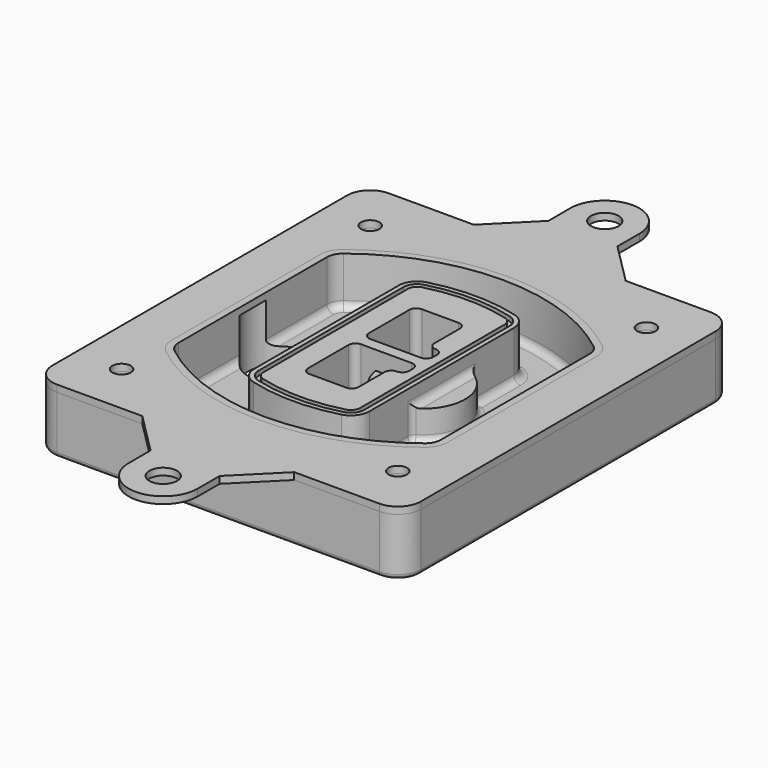
from build123d import *

# Parameters (mm, degrees)
F0_R      = 4
F1_DEPTH  = 25
F2_DEPTH  = 3
F3_DEPTH  = 18
F5_DEPTH  = 21
F6_DEPTH  = 2
F8_DEPTH  = 20
F9_DEPTH  = 16
F10_DEPTH = 25
F7_R      = 6
F7_R_2    = 4
F11_DEPTH = 6
F13_DEPTH = 9
F14_R     = 3
F15_R     = 2
F16_R     = 6
F16_R_2   = 4
F17_DEPTH = 3


with BuildPart() as f1:
    # F0 (on Top) → F1 (new body)
    with BuildSketch(Plane.XY):
        with BuildLine():
            ThreePointArc((-80, -80), (-77.0710678119, -87.0710678119), (-70, -90))
            Line((-70, -90), (70, -90))
            ThreePointArc((70, -90), (77.0710678119, -87.0710678119), (80, -80))
            Line((80, -80), (80, 80))
            ThreePointArc((80, 80), (77.0710678119, 87.0710678119), (70, 90))
            Line((70, 90), (-70, 90))
            ThreePointArc((-70, 90), (-77.0710678119, 87.0710678119), (-80, 80))
            Line((-80, 80), (-80, -80))
        make_face()
        with Locations((-60, -67.5)):
            Circle(F0_R, mode=Mode.SUBTRACT)
        with Locations((60, -67.5)):
            Circle(F0_R, mode=Mode.SUBTRACT)
        with Locations((-60, 67.5)):
            Circle(F0_R, mode=Mode.SUBTRACT)
        with BuildLine():
            ThreePointArc((-64, 40.2934422872), (-62.5820384798, 46.4328484224), (-58.6153846154, 51.3286200352))
            ThreePointArc((-58.6153846154, 51.3286200352), (0, 71.5), (58.6153846154, 51.3286200352))
            ThreePointArc((58.6153846154, 51.3286200352), (62.5820384798, 46.4328484224), (64, 40.2934422872))
            Line((64, 40.2934422872), (64, -40.2934422872))
            ThreePointArc((64, -40.2934422872), (62.5820384798, -46.4328484224), (58.6153846154, -51.3286200352))
            ThreePointArc((58.6153846154, -51.3286200352), (0, -71.5), (-58.6153846154, -51.3286200352))
            ThreePointArc((-58.6153846154, -51.3286200352), (-62.5820384798, -46.4328484224), (-64, -40.2934422872))
            Line((-64, -40.2934422872), (-64, 40.2934422872))
        make_face(mode=Mode.SUBTRACT)
        with Locations((60, 67.5)):
            Circle(F0_R, mode=Mode.SUBTRACT)
        with BuildLine():
            ThreePointArc((58.6153846154, 51.3286200352), (0, 71.5), (-58.6153846154, 51.3286200352))
            ThreePointArc((-58.6153846154, 51.3286200352), (-62.5820384798, 46.4328484224), (-64, 40.2934422872))
            Line((-64, 40.2934422872), (-64, -40.2934422872))
            ThreePointArc((-64, -40.2934422872), (-62.5820384798, -46.4328484224), (-58.6153846154, -51.3286200352))
            ThreePointArc((-58.6153846154, -51.3286200352), (0, -71.5), (58.6153846154, -51.3286200352))
            ThreePointArc((58.6153846154, -51.3286200352), (62.5820384798, -46.4328484224), (64, -40.2934422872))
            Line((64, -40.2934422872), (64, 40.2934422872))
            ThreePointArc((64, 40.2934422872), (62.5820384798, 46.4328484224), (58.6153846154, 51.3286200352))
        make_face()
        with BuildLine():
            Line((-60, -40.2934422872), (-60, 40.2934422872))
            ThreePointArc((-60, 40.2934422872), (-58.9871703427, 44.6787323838), (-56.1538461538, 48.1757121072))
            ThreePointArc((-56.1538461538, 48.1757121072), (0, 67.5), (56.1538461538, 48.1757121072))
            ThreePointArc((56.1538461538, 48.1757121072), (58.9871703427, 44.6787323838), (60, 40.2934422872))
            Line((60, 40.2934422872), (60, -40.2934422872))
            ThreePointArc((60, -40.2934422872), (58.9871703427, -44.6787323838), (56.1538461538, -48.1757121072))
            ThreePointArc((56.1538461538, -48.1757121072), (0, -67.5), (-56.1538461538, -48.1757121072))
            ThreePointArc((-56.1538461538, -48.1757121072), (-58.9871703427, -44.6787323838), (-60, -40.2934422872))
        make_face(mode=Mode.SUBTRACT)
        with BuildLine():
            ThreePointArc((-56.1538461538, 48.1757121072), (-58.9871703427, 44.6787323838), (-60, 40.2934422872))
            Line((-60, 40.2934422872), (-60, -40.2934422872))
            ThreePointArc((-60, -40.2934422872), (-58.9871703427, -44.6787323838), (-56.1538461538, -48.1757121072))
            ThreePointArc((-56.1538461538, -48.1757121072), (0, -67.5), (56.1538461538, -48.1757121072))
            ThreePointArc((56.1538461538, -48.1757121072), (58.9871703427, -44.6787323838), (60, -40.2934422872))
            Line((60, -40.2934422872), (60, 40.2934422872))
            ThreePointArc((60, 40.2934422872), (58.9871703427, 44.6787323838), (56.1538461538, 48.1757121072))
            ThreePointArc((56.1538461538, 48.1757121072), (0, 67.5), (-56.1538461538, 48.1757121072))
        make_face()
        with BuildLine():
            ThreePointArc((54.3076923077, 45.8110311612), (56.2910192399, 43.3631453548), (57, 40.2934422872))
            Line((57, 40.2934422872), (57, -40.2934422872))
            ThreePointArc((57, -40.2934422872), (56.2910192399, -43.3631453548), (54.3076923077, -45.8110311612))
            ThreePointArc((54.3076923077, -45.8110311612), (0, -64.5), (-54.3076923077, -45.8110311612))
            ThreePointArc((-54.3076923077, -45.8110311612), (-56.2910192399, -43.3631453548), (-57, -40.2934422872))
            Line((-57, -40.2934422872), (-57, 40.2934422872))
            ThreePointArc((-57, 40.2934422872), (-56.2910192399, 43.3631453548), (-54.3076923077, 45.8110311612))
            ThreePointArc((-54.3076923077, 45.8110311612), (0, 64.5), (54.3076923077, 45.8110311612))
        make_face(mode=Mode.SUBTRACT)
        with BuildLine():
            Line((57, -40.2934422872), (57, 40.2934422872))
            ThreePointArc((57, 40.2934422872), (56.2910192399, 43.3631453548), (54.3076923077, 45.8110311612))
            ThreePointArc((54.3076923077, 45.8110311612), (0, 64.5), (-54.3076923077, 45.8110311612))
            ThreePointArc((-54.3076923077, 45.8110311612), (-56.2910192399, 43.3631453548), (-57, 40.2934422872))
            Line((-57, 40.2934422872), (-57, -40.2934422872))
            ThreePointArc((-57, -40.2934422872), (-56.2910192399, -43.3631453548), (-54.3076923077, -45.8110311612))
            ThreePointArc((-54.3076923077, -45.8110311612), (0, -64.5), (54.3076923077, -45.8110311612))
            ThreePointArc((54.3076923077, -45.8110311612), (56.2910192399, -43.3631453548), (57, -40.2934422872))
        make_face()
    extrude(amount=-F1_DEPTH)

    # F0 (on Top) → F2 (join)
    with BuildSketch(Plane.XY):
        with BuildLine():
            ThreePointArc((-56.1538461538, 48.1757121072), (-58.9871703427, 44.6787323838), (-60, 40.2934422872))
            Line((-60, 40.2934422872), (-60, -40.2934422872))
            ThreePointArc((-60, -40.2934422872), (-58.9871703427, -44.6787323838), (-56.1538461538, -48.1757121072))
            ThreePointArc((-56.1538461538, -48.1757121072), (0, -67.5), (56.1538461538, -48.1757121072))
            ThreePointArc((56.1538461538, -48.1757121072), (58.9871703427, -44.6787323838), (60, -40.2934422872))
            Line((60, -40.2934422872), (60, 40.2934422872))
            ThreePointArc((60, 40.2934422872), (58.9871703427, 44.6787323838), (56.1538461538, 48.1757121072))
            ThreePointArc((56.1538461538, 48.1757121072), (0, 67.5), (-56.1538461538, 48.1757121072))
        make_face()
        with BuildLine():
            ThreePointArc((54.3076923077, 45.8110311612), (56.2910192399, 43.3631453548), (57, 40.2934422872))
            Line((57, 40.2934422872), (57, -40.2934422872))
            ThreePointArc((57, -40.2934422872), (56.2910192399, -43.3631453548), (54.3076923077, -45.8110311612))
            ThreePointArc((54.3076923077, -45.8110311612), (0, -64.5), (-54.3076923077, -45.8110311612))
            ThreePointArc((-54.3076923077, -45.8110311612), (-56.2910192399, -43.3631453548), (-57, -40.2934422872))
            Line((-57, -40.2934422872), (-57, 40.2934422872))
            ThreePointArc((-57, 40.2934422872), (-56.2910192399, 43.3631453548), (-54.3076923077, 45.8110311612))
            ThreePointArc((-54.3076923077, 45.8110311612), (0, 64.5), (54.3076923077, 45.8110311612))
        make_face(mode=Mode.SUBTRACT)
    extrude(amount=F2_DEPTH)

    # F0 (on Top) → F3 (cut)
    with BuildSketch(Plane.XY):
        with BuildLine():
            Line((57, -40.2934422872), (57, 40.2934422872))
            ThreePointArc((57, 40.2934422872), (56.2910192399, 43.3631453548), (54.3076923077, 45.8110311612))
            ThreePointArc((54.3076923077, 45.8110311612), (0, 64.5), (-54.3076923077, 45.8110311612))
            ThreePointArc((-54.3076923077, 45.8110311612), (-56.2910192399, 43.3631453548), (-57, 40.2934422872))
            Line((-57, 40.2934422872), (-57, -40.2934422872))
            ThreePointArc((-57, -40.2934422872), (-56.2910192399, -43.3631453548), (-54.3076923077, -45.8110311612))
            ThreePointArc((-54.3076923077, -45.8110311612), (0, -64.5), (54.3076923077, -45.8110311612))
            ThreePointArc((54.3076923077, -45.8110311612), (56.2910192399, -43.3631453548), (57, -40.2934422872))
        make_face()
    extrude(amount=-F3_DEPTH, mode=Mode.SUBTRACT)

    # F4 (on face) → F5 (join, through all)
    with BuildSketch(Plane.XY.offset(3)):
        with BuildLine():
            ThreePointArc((-25, -39.2465276821), (-23.3511545998, -44.1109737193), (-19.0842911877, -46.9702398883))
            ThreePointArc((-19.0842911877, -46.9702398883), (0, -49.5), (19.0842911877, -46.9702398883))
            ThreePointArc((19.0842911877, -46.9702398883), (23.3511545998, -44.1109737193), (25, -39.2465276821))
            Line((25, -39.2465276821), (25, 39.2465276821))
            ThreePointArc((25, 39.2465276821), (23.3511545998, 44.1109737193), (19.0842911877, 46.9702398883))
            ThreePointArc((19.0842911877, 46.9702398883), (0, 49.5), (-19.0842911877, 46.9702398883))
            ThreePointArc((-19.0842911877, 46.9702398883), (-23.3511545998, 44.1109737193), (-25, 39.2465276821))
            Line((-25, 39.2465276821), (-25, -39.2465276821))
        make_face()
        with BuildLine():
            ThreePointArc((18.5632183908, 45.0393118368), (21.7633659499, 42.89486221), (23, 39.2465276821))
            Line((23, 39.2465276821), (23, -39.2465276821))
            ThreePointArc((23, -39.2465276821), (21.7633659499, -42.89486221), (18.5632183908, -45.0393118368))
            ThreePointArc((18.5632183908, -45.0393118368), (0, -47.5), (-18.5632183908, -45.0393118368))
            ThreePointArc((-18.5632183908, -45.0393118368), (-21.7633659499, -42.89486221), (-23, -39.2465276821))
            Line((-23, -39.2465276821), (-23, 39.2465276821))
            ThreePointArc((-23, 39.2465276821), (-21.7633659499, 42.89486221), (-18.5632183908, 45.0393118368))
            ThreePointArc((-18.5632183908, 45.0393118368), (0, 47.5), (18.5632183908, 45.0393118368))
        make_face(mode=Mode.SUBTRACT)
        with BuildLine():
            Line((23, -39.2465276821), (23, 39.2465276821))
            ThreePointArc((23, 39.2465276821), (21.7633659499, 42.89486221), (18.5632183908, 45.0393118368))
            ThreePointArc((18.5632183908, 45.0393118368), (0, 47.5), (-18.5632183908, 45.0393118368))
            ThreePointArc((-18.5632183908, 45.0393118368), (-21.7633659499, 42.89486221), (-23, 39.2465276821))
            Line((-23, 39.2465276821), (-23, -39.2465276821))
            ThreePointArc((-23, -39.2465276821), (-21.7633659499, -42.89486221), (-18.5632183908, -45.0393118368))
            ThreePointArc((-18.5632183908, -45.0393118368), (0, -47.5), (18.5632183908, -45.0393118368))
            ThreePointArc((18.5632183908, -45.0393118368), (21.7633659499, -42.89486221), (23, -39.2465276821))
        make_face()
        with BuildLine():
            ThreePointArc((18.0421455939, 43.1083837852), (20.1755772999, 41.6787507007), (21, 39.2465276821))
            Line((21, 39.2465276821), (21, -39.2465276821))
            ThreePointArc((21, -39.2465276821), (20.1755772999, -41.6787507007), (18.0421455939, -43.1083837852))
            ThreePointArc((18.0421455939, -43.1083837852), (0, -45.5), (-18.0421455939, -43.1083837852))
            ThreePointArc((-18.0421455939, -43.1083837852), (-20.1755772999, -41.6787507007), (-21, -39.2465276821))
            Line((-21, -39.2465276821), (-21, 39.2465276821))
            ThreePointArc((-21, 39.2465276821), (-20.1755772999, 41.6787507007), (-18.0421455939, 43.1083837852))
            ThreePointArc((-18.0421455939, 43.1083837852), (0, 45.5), (18.0421455939, 43.1083837852))
        make_face(mode=Mode.SUBTRACT)
        with BuildLine():
            Line((21, -39.2465276821), (21, 39.2465276821))
            ThreePointArc((21, 39.2465276821), (20.1755772999, 41.6787507007), (18.0421455939, 43.1083837852))
            ThreePointArc((18.0421455939, 43.1083837852), (0, 45.5), (-18.0421455939, 43.1083837852))
            ThreePointArc((-18.0421455939, 43.1083837852), (-20.1755772999, 41.6787507007), (-21, 39.2465276821))
            Line((-21, 39.2465276821), (-21, -39.2465276821))
            ThreePointArc((-21, -39.2465276821), (-20.1755772999, -41.6787507007), (-18.0421455939, -43.1083837852))
            ThreePointArc((-18.0421455939, -43.1083837852), (0, -45.5), (18.0421455939, -43.1083837852))
            ThreePointArc((18.0421455939, -43.1083837852), (20.1755772999, -41.6787507007), (21, -39.2465276821))
        make_face()
        with BuildLine():
            Line((-8, -2.5), (14, -2.5))
            ThreePointArc((14, -2.5), (16.1213203436, -3.3786796564), (17, -5.5))
            Line((17, -5.5), (17, -7.5))
            ThreePointArc((17, -7.5), (16.1213203436, -9.6213203436), (14, -10.5))
            ThreePointArc((14, -10.5), (11.8786796564, -11.3786796564), (11, -13.5))
            Line((11, -13.5), (11, -27.5))
            ThreePointArc((11, -27.5), (10.1213203436, -29.6213203436), (8, -30.5))
            Line((8, -30.5), (-8, -30.5))
            ThreePointArc((-8, -30.5), (-10.1213203436, -29.6213203436), (-11, -27.5))
            Line((-11, -27.5), (-11, -5.5))
            ThreePointArc((-11, -5.5), (-10.1213203436, -3.3786796564), (-8, -2.5))
        make_face(mode=Mode.SUBTRACT)
        with BuildLine():
            ThreePointArc((-8, 2.5), (-10.1213203436, 3.3786796564), (-11, 5.5))
            Line((-11, 5.5), (-11, 27.5))
            ThreePointArc((-11, 27.5), (-10.1213203436, 29.6213203436), (-8, 30.5))
            Line((-8, 30.5), (8, 30.5))
            ThreePointArc((8, 30.5), (10.1213203436, 29.6213203436), (11, 27.5))
            Line((11, 27.5), (11, 13.5))
            ThreePointArc((11, 13.5), (11.8786796564, 11.3786796564), (14, 10.5))
            ThreePointArc((14, 10.5), (16.1213203436, 9.6213203436), (17, 7.5))
            Line((17, 7.5), (17, 5.5))
            ThreePointArc((17, 5.5), (16.1213203436, 3.3786796564), (14, 2.5))
            Line((14, 2.5), (-8, 2.5))
        make_face(mode=Mode.SUBTRACT)
    extrude(amount=-F5_DEPTH)

    # F4 (on face) → F6 (cut)
    with BuildSketch(Plane.XY.offset(3)):
        with BuildLine():
            Line((23, -39.2465276821), (23, 39.2465276821))
            ThreePointArc((23, 39.2465276821), (21.7633659499, 42.89486221), (18.5632183908, 45.0393118368))
            ThreePointArc((18.5632183908, 45.0393118368), (0, 47.5), (-18.5632183908, 45.0393118368))
            ThreePointArc((-18.5632183908, 45.0393118368), (-21.7633659499, 42.89486221), (-23, 39.2465276821))
            Line((-23, 39.2465276821), (-23, -39.2465276821))
            ThreePointArc((-23, -39.2465276821), (-21.7633659499, -42.89486221), (-18.5632183908, -45.0393118368))
            ThreePointArc((-18.5632183908, -45.0393118368), (0, -47.5), (18.5632183908, -45.0393118368))
            ThreePointArc((18.5632183908, -45.0393118368), (21.7633659499, -42.89486221), (23, -39.2465276821))
        make_face()
        with BuildLine():
            ThreePointArc((18.0421455939, 43.1083837852), (20.1755772999, 41.6787507007), (21, 39.2465276821))
            Line((21, 39.2465276821), (21, -39.2465276821))
            ThreePointArc((21, -39.2465276821), (20.1755772999, -41.6787507007), (18.0421455939, -43.1083837852))
            ThreePointArc((18.0421455939, -43.1083837852), (0, -45.5), (-18.0421455939, -43.1083837852))
            ThreePointArc((-18.0421455939, -43.1083837852), (-20.1755772999, -41.6787507007), (-21, -39.2465276821))
            Line((-21, -39.2465276821), (-21, 39.2465276821))
            ThreePointArc((-21, 39.2465276821), (-20.1755772999, 41.6787507007), (-18.0421455939, 43.1083837852))
            ThreePointArc((-18.0421455939, 43.1083837852), (0, 45.5), (18.0421455939, 43.1083837852))
        make_face(mode=Mode.SUBTRACT)
    extrude(amount=-F6_DEPTH, mode=Mode.SUBTRACT)

    # F7 (on face) → F8 (join)
    with BuildSketch(Plane(origin=(0, 0, -25), x_dir=(1, 0, 0), z_dir=(0, 0, -1))):
        with BuildLine():
            ThreePointArc((3.28842436, 0), (16.7567035675, 13.4682792075), (30.224982775, 0))
            Line((30.224982775, 0), (35.224982775, 0))
            ThreePointArc((35.224982775, 0), (16.7567035675, 18.4682792075), (-1.71157564, 0))
            Line((-1.71157564, 0), (3.28842436, 0))
        make_face()
        with BuildLine():
            Line((3.28842436, 0), (30.224982775, 0))
            ThreePointArc((30.224982775, 0), (16.7567035675, 13.4682792075), (3.28842436, 0))
        make_face()
        with BuildLine():
            ThreePointArc((3.28842436, 0), (16.7567035675, -13.4682792075), (30.224982775, 0))
            Line((30.224982775, 0), (3.28842436, 0))
        make_face()
        with BuildLine():
            Line((35.224982775, 0), (30.224982775, 0))
            ThreePointArc((30.224982775, 0), (16.7567035675, -13.4682792075), (3.28842436, 0))
            Line((3.28842436, 0), (-1.71157564, 0))
            ThreePointArc((-1.71157564, 0), (16.7567035675, -18.4682792075), (35.224982775, 0))
        make_face()
    extrude(amount=-F8_DEPTH)

    # F7 (on face) → F9 (cut)
    with BuildSketch(Plane(origin=(0, 0, -25), x_dir=(1, 0, 0), z_dir=(0, 0, -1))):
        with BuildLine():
            Line((3.28842436, 0), (30.224982775, 0))
            ThreePointArc((30.224982775, 0), (16.7567035675, 13.4682792075), (3.28842436, 0))
        make_face()
        with BuildLine():
            ThreePointArc((3.28842436, 0), (16.7567035675, -13.4682792075), (30.224982775, 0))
            Line((30.224982775, 0), (3.28842436, 0))
        make_face()
    extrude(amount=-F9_DEPTH, mode=Mode.SUBTRACT)

    # F7 (on face) → F10 (cut)
    with BuildSketch(Plane(origin=(0, 0, -25), x_dir=(1, 0, 0), z_dir=(0, 0, -1))):
        with BuildLine():
            Line((-59.0318229325, 0), (-32.0952645175, 0))
            ThreePointArc((-32.0952645175, 0), (-45.563543725, 13.4682792075), (-59.0318229325, 0))
        make_face()
        with BuildLine():
            ThreePointArc((-59.0318229325, 0), (-45.563543725, -13.4682792075), (-32.0952645175, 0))
            Line((-32.0952645175, 0), (-59.0318229325, 0))
        make_face()
    extrude(amount=-F10_DEPTH, mode=Mode.SUBTRACT)

    # F7 (on face) → F11 (cut)
    with BuildSketch(Plane(origin=(0, 0, -25), x_dir=(1, 0, 0), z_dir=(0, 0, -1))):
        with Locations((60, -67.5)):
            Circle(F7_R)
        with Locations((60, -67.5)):
            Circle(F7_R_2, mode=Mode.SUBTRACT)
        with Locations((60, -67.5)):
            Circle(F7_R)
        with Locations((60, -67.5)):
            Circle(F7_R_2, mode=Mode.SUBTRACT)
        with Locations((-60, -67.5)):
            Circle(F7_R)
        with Locations((-60, -67.5)):
            Circle(F7_R_2, mode=Mode.SUBTRACT)
        with Locations((-60, -67.5)):
            Circle(F7_R)
        with Locations((-60, -67.5)):
            Circle(F7_R_2, mode=Mode.SUBTRACT)
        with Locations((-60, 67.5)):
            Circle(F7_R)
        with Locations((-60, 67.5)):
            Circle(F7_R_2, mode=Mode.SUBTRACT)
        with Locations((-60, 67.5)):
            Circle(F7_R)
        with Locations((-60, 67.5)):
            Circle(F7_R_2, mode=Mode.SUBTRACT)
        with Locations((60, 67.5)):
            Circle(F7_R)
        with Locations((60, 67.5)):
            Circle(F7_R_2, mode=Mode.SUBTRACT)
        with Locations((60, 67.5)):
            Circle(F7_R)
        with Locations((60, 67.5)):
            Circle(F7_R_2, mode=Mode.SUBTRACT)
    extrude(amount=-F11_DEPTH, mode=Mode.SUBTRACT)

    # F12 (on face) → F13 (cut, through all)
    with BuildSketch(Plane(origin=(0, 0, -9), x_dir=(1, 0, 0), z_dir=(0, 0, -1))):
        with BuildLine():
            Line((11, 13.5), (11, 17.5481537753))
            ThreePointArc((11, 17.5481537753), (2.5696536419, 11.8239143813), (-1.5415842455, 2.5))
            Line((-1.5415842455, 2.5), (3.5224848595, 2.5))
            ThreePointArc((3.5224848595, 2.5), (6.1857188154, 8.3455872281), (11.2536447004, 12.2927168648))
            ThreePointArc((11.2536447004, 12.2927168648), (11.0640958889, 12.8831798879), (11, 13.5))
        make_face()
        with BuildLine():
            ThreePointArc((11.2536447004, -12.2927168648), (6.1857188154, -8.3455872281), (3.5224848595, -2.5))
            Line((3.5224848595, -2.5), (-1.5415842455, -2.5))
            ThreePointArc((-1.5415842455, -2.5), (2.5696536419, -11.8239143813), (11, -17.5481537753))
            Line((11, -17.5481537753), (11, -13.5))
            ThreePointArc((11, -13.5), (11.0640958889, -12.8831798879), (11.2536447004, -12.2927168648))
        make_face()
        with BuildLine():
            ThreePointArc((11.2536447004, 12.2927168648), (6.1857188154, 8.3455872281), (3.5224848595, 2.5))
            Line((3.5224848595, 2.5), (14, 2.5))
            ThreePointArc((14, 2.5), (16.1213203436, 3.3786796564), (17, 5.5))
            Line((17, 5.5), (17, 7.5))
            ThreePointArc((17, 7.5), (16.1213203436, 9.6213203436), (14, 10.5))
            ThreePointArc((14, 10.5), (12.3601599782, 10.9878446101), (11.2536447004, 12.2927168648))
        make_face()
        with BuildLine():
            Line((14, -2.5), (3.5224848595, -2.5))
            ThreePointArc((3.5224848595, -2.5), (6.1857188154, -8.3455872281), (11.2536447004, -12.2927168648))
            ThreePointArc((11.2536447004, -12.2927168648), (12.3601599782, -10.9878446101), (14, -10.5))
            ThreePointArc((14, -10.5), (16.1213203436, -9.6213203436), (17, -7.5))
            Line((17, -7.5), (17, -5.5))
            ThreePointArc((17, -5.5), (16.1213203436, -3.3786796564), (14, -2.5))
        make_face()
    extrude(amount=F13_DEPTH, mode=Mode.SUBTRACT)

    # F14
    f14_edges = [f1.edges().sort_by_distance(p)[0] for p in [
        (-57, -23.703476, -18),
        (-57, 23.703476, -18),
        (25, 0, -5),
        (25, 16.526506, -11.5),
        (25, -16.526506, -11.5),
        (25, -27.886517, -18),
        (35.224983, 0, -18),
    ]]
    fillet(f14_edges, radius=F14_R)

    # F15
    f15_edges = [f1.edges().sort_by_distance(p)[0] for p in [
        (0, -90, -25),
    ]]
    fillet(f15_edges, radius=F15_R)


with BuildPart() as f17:
    # F16 (on face) → F17 (new body, through all)
    with BuildSketch(Plane.XY):
        with BuildLine():
            Line((0, -90), (-32.9995627493, -90))
            Line((-32.9995627493, -90), (-14.9995627493, -108))
            Line((-14.9995627493, -108), (-14.9995627493, -120))
            ThreePointArc((-14.9995627493, -120), (0.0572658715, -134.8853597785), (15, -119.8854690916))
            Line((15, -119.8854690916), (15, -108))
            Line((15, -108), (33, -90))
            Line((33, -90), (0, -90))
        make_face()
        with Locations((0, -119.8854690916)):
            Circle(F16_R, mode=Mode.SUBTRACT)
        with BuildLine():
            Line((33, 90), (0, 90))
            Line((0, 90), (-32.9995627493, 90))
            Line((-32.9995627493, 90), (-70, 90))
            ThreePointArc((-70, 90), (-77.0710678119, 87.0710678119), (-80, 80))
            Line((-80, 80), (-80, -80))
            ThreePointArc((-80, -80), (-77.0710678119, -87.0710678119), (-70, -90))
            Line((-70, -90), (-32.9995627493, -90))
            Line((-32.9995627493, -90), (0, -90))
            Line((0, -90), (33, -90))
            Line((33, -90), (70, -90))
            ThreePointArc((70, -90), (77.0710678119, -87.0710678119), (80, -80))
            Line((80, -80), (80, 80))
            ThreePointArc((80, 80), (77.0710678119, 87.0710678119), (70, 90))
            Line((70, 90), (33, 90))
        make_face()
        with Locations((-60, -67.5)):
            Circle(F16_R_2, mode=Mode.SUBTRACT)
        with Locations((60, -67.5)):
            Circle(F16_R_2, mode=Mode.SUBTRACT)
        with Locations((-60, 67.5)):
            Circle(F16_R_2, mode=Mode.SUBTRACT)
        with BuildLine():
            ThreePointArc((-60, 40.2934422872), (-58.9871703427, 44.6787323838), (-56.1538461538, 48.1757121072))
            ThreePointArc((-56.1538461538, 48.1757121072), (0, 67.5), (56.1538461538, 48.1757121072))
            ThreePointArc((56.1538461538, 48.1757121072), (58.9871703427, 44.6787323838), (60, 40.2934422872))
            Line((60, 40.2934422872), (60, -40.2934422872))
            ThreePointArc((60, -40.2934422872), (58.9871703427, -44.6787323838), (56.1538461538, -48.1757121072))
            ThreePointArc((56.1538461538, -48.1757121072), (0, -67.5), (-56.1538461538, -48.1757121072))
            ThreePointArc((-56.1538461538, -48.1757121072), (-58.9871703427, -44.6787323838), (-60, -40.2934422872))
            Line((-60, -40.2934422872), (-60, 40.2934422872))
        make_face(mode=Mode.SUBTRACT)
        with Locations((60, 67.5)):
            Circle(F16_R_2, mode=Mode.SUBTRACT)
        with BuildLine():
            Line((-32.9995627493, 90), (0, 90))
            Line((0, 90), (33, 90))
            Line((33, 90), (15, 108))
            Line((15, 108), (15, 119.8854690916))
            ThreePointArc((15, 119.8854690916), (0.0572658715, 134.8853597785), (-14.9995627493, 120))
            Line((-14.9995627493, 120), (-14.9995627493, 108))
            Line((-14.9995627493, 108), (-32.9995627493, 90))
        make_face()
        with Locations((0, 119.8854690916)):
            Circle(F16_R, mode=Mode.SUBTRACT)
    extrude(amount=F17_DEPTH)


solid = Compound([f1.part, f17.part])
